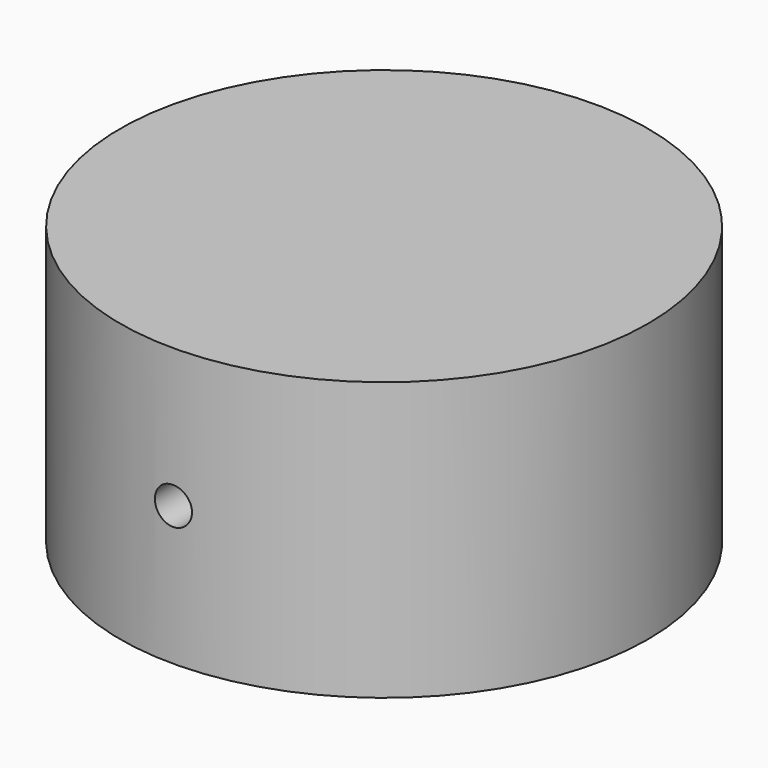
from build123d import *

# Parameters (mm, degrees)
F0_R     = 14.25
F1_DEPTH = 15
F3_R     = 1
F4_DEPTH = 28.5


with BuildPart() as f1:
    # F0 (on Top) → F1 (new body)
    with BuildSketch(Plane.XY):
        Circle(F0_R)
    extrude(amount=F1_DEPTH)

    # F3 (on offset) → F4 (cut)
    with BuildSketch(Plane.XZ.offset(14.25)):
        with Locations((0, 7.5)):
            Circle(F3_R)
    extrude(amount=-F4_DEPTH, mode=Mode.SUBTRACT)


solid = f1.part
